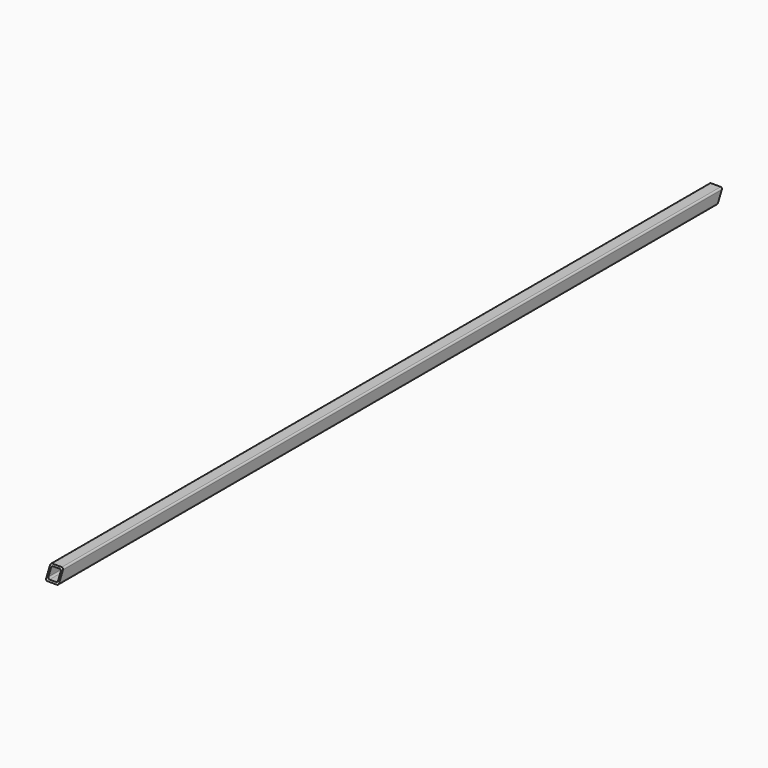
from build123d import *

# Parameters (mm, degrees)
F1_DEPTH = 1622.425
F3_DEPTH = 38.1
F5_DEPTH = 25.4


with BuildPart() as f1:
    # F0 (on Front) → F1 (new body)
    with BuildSketch(Plane.XZ):
        with BuildLine():
            Line((-10.227392, -12.024776), (8.822608, -12.024776))
            ThreePointArc((8.822608, -12.024776), (11.067672, -11.09484), (11.997608, -8.849776))
            Line((11.997608, -8.849776), (11.997608, 10.200224))
            ThreePointArc((11.997608, 10.200224), (11.067672, 12.445288), (8.822608, 13.375224))
            Line((8.822608, 13.375224), (-10.227392, 13.375224))
            ThreePointArc((-10.227392, 13.375224), (-12.472456, 12.445288), (-13.402392, 10.200224))
            Line((-13.402392, 10.200224), (-13.402392, -8.849776))
            ThreePointArc((-13.402392, -8.849776), (-12.472456, -11.09484), (-10.227392, -12.024776))
        make_face()
        with BuildLine():
            ThreePointArc((8.822608, -5.674776), (7.892672, -7.91984), (5.647608, -8.849776))
            Line((5.647608, -8.849776), (-7.052392, -8.849776))
            ThreePointArc((-7.052392, -8.849776), (-9.297456, -7.91984), (-10.227392, -5.674776))
            Line((-10.227392, -5.674776), (-10.227392, 7.025224))
            ThreePointArc((-10.227392, 7.025224), (-9.297456, 9.270288), (-7.052392, 10.200224))
            Line((-7.052392, 10.200224), (5.647608, 10.200224))
            ThreePointArc((5.647608, 10.200224), (7.892672, 9.270288), (8.822608, 7.025224))
            Line((8.822608, 7.025224), (8.822608, -5.674776))
        make_face(mode=Mode.SUBTRACT)
    extrude(amount=F1_DEPTH)

    # F2 (on Right) → F3 (cut, symmetric)
    with BuildSketch(Plane.YZ):
        Polygon((0, -13.513529), (0, 13.375183), (-12.969575, -13.513529), align=None)
    extrude(amount=F3_DEPTH, both=True, mode=Mode.SUBTRACT)

    # F4 (on Right) → F5 (cut, symmetric)
    with BuildSketch(Plane.YZ):
        Polygon((-1622.425, 14.863936), (-1622.425, -12.024776), (-1609.455425, 14.863936), align=None)
    extrude(amount=F5_DEPTH, both=True, mode=Mode.SUBTRACT)


solid = f1.part
